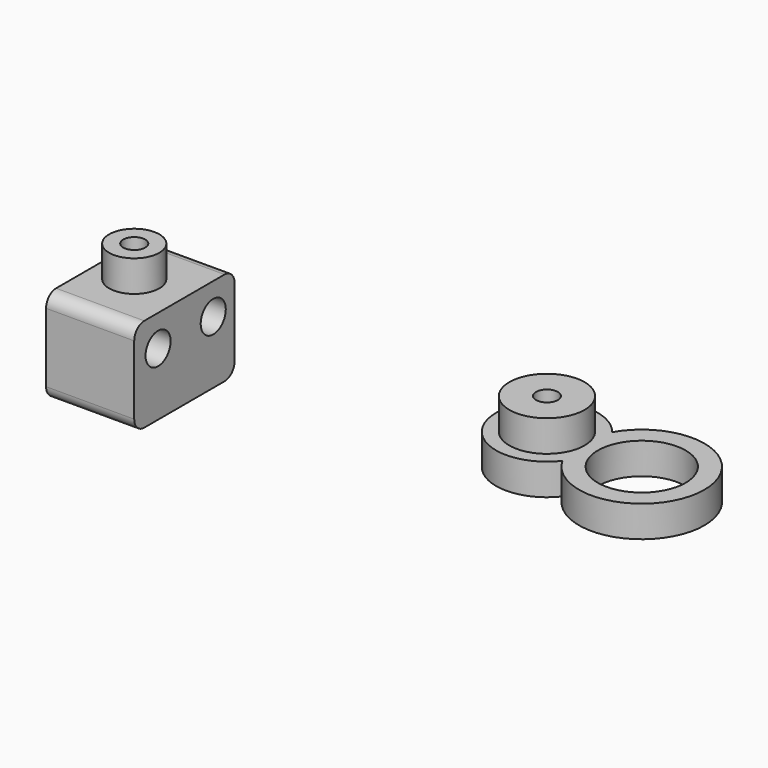
from build123d import *

# Parameters (mm, degrees)
F0_R          = 6
F0_R_2        = 7
F1_DEPTH      = 5
F2_DEPTH      = 10
F3_R          = 1.75
F4_DEPTH      = 25
F5_R          = 4
F6_DEPTH      = 5
F6_DEPTH_BACK = 10
F5_R_2        = 1.75
F7_DEPTH      = 10
F7_DEPTH_BACK = 10
F8_DEPTH      = 5
F8_DEPTH_BACK = 10
F9_R          = 2.5
F10_DEPTH     = 20
F11_R         = 2
F12_R         = 1.75
F13_DEPTH     = 4


with BuildPart() as f1:
    # F0 (on Top) → F1 (new body)
    with BuildSketch(Plane.XY):
        with BuildLine():
            ThreePointArc((6.431165807, -4.9538393006), (25.1179072089, 0), (6.431165807, 4.9538393006))
            ThreePointArc((6.431165807, 4.9538393006), (-8.1179072089, 0), (6.431165807, -4.9538393006))
        make_face()
        Circle(F0_R, mode=Mode.SUBTRACT)
        with Locations((15.1179072089, 0)):
            Circle(F0_R_2, mode=Mode.SUBTRACT)
    extrude(amount=F1_DEPTH)

    # F0 (on Top) → F2 (join)
    with BuildSketch(Plane.XY):
        Circle(F0_R)
    extrude(amount=F2_DEPTH)

    # F3 (on face) → F4 (cut)
    with BuildSketch(Plane.XY.offset(10)):
        Circle(F3_R)
    extrude(amount=-F4_DEPTH, mode=Mode.SUBTRACT)


with BuildPart() as f6:
    # F5 (on Top) → F6 (new body, two sides)
    with BuildSketch(Plane.XY) as f6_sk:
        with BuildLine():
            Line((-60.8299699426, -3.3166247904), (-60.8299699426, 3.3166247904))
            ThreePointArc((-60.8299699426, 3.3166247904), (-71.8299699426, 0), (-60.8299699426, -3.3166247904))
        make_face()
        with Locations((-65.8299699426, 0)):
            Circle(F5_R, mode=Mode.SUBTRACT)
        with BuildLine():
            ThreePointArc((-60.8299699426, -3.3166247904), (-60.085407296, -1.7320508076), (-59.8299699426, 0))
            ThreePointArc((-59.8299699426, 0), (-60.085407296, 1.7320508076), (-60.8299699426, 3.3166247904))
            Line((-60.8299699426, 3.3166247904), (-60.8299699426, -3.3166247904))
        make_face()
        with BuildLine():
            Line((-60.8299699426, -3.3166247904), (-60.8299699426, 3.3166247904))
            ThreePointArc((-60.8299699426, 3.3166247904), (-71.8299699426, 0), (-60.8299699426, -3.3166247904))
        make_face()
        with Locations((-65.8299699426, 0)):
            Circle(F5_R, mode=Mode.SUBTRACT)
    extrude(amount=F6_DEPTH)
    extrude(f6_sk.sketch, amount=-F6_DEPTH_BACK)

    # F5 (on Top) → F7 (join, two sides)
    with BuildSketch(Plane.XY) as f7_sk:
        with Locations((-65.8299699426, 0)):
            Circle(F5_R)
        with Locations((-65.8299699426, 0)):
            Circle(F5_R_2, mode=Mode.SUBTRACT)
    extrude(amount=F7_DEPTH)
    extrude(f7_sk.sketch, amount=-F7_DEPTH_BACK)

    # F5 (on Top) → F8 (join, two sides)
    with BuildSketch(Plane.XY) as f8_sk:
        with BuildLine():
            ThreePointArc((-60.8299699426, 3.3166247904), (-60.085407296, 1.7320508076), (-59.8299699426, 0))
            ThreePointArc((-59.8299699426, 0), (-60.085407296, -1.7320508076), (-60.8299699426, -3.3166247904))
            Line((-60.8299699426, -3.3166247904), (-60.8299699426, -10))
            Line((-60.8299699426, -10), (-57.8299699426, -10))
            Line((-57.8299699426, -10), (-57.8299699426, 10))
            Line((-57.8299699426, 10), (-60.8299699426, 10))
            Line((-60.8299699426, 10), (-60.8299699426, 3.3166247904))
        make_face()
        with BuildLine():
            ThreePointArc((-60.8299699426, -3.3166247904), (-71.8299699426, 0), (-60.8299699426, 3.3166247904))
            Line((-60.8299699426, 3.3166247904), (-60.8299699426, 10))
            Line((-60.8299699426, 10), (-71.8917399645, 10))
            Line((-71.8917399645, 10), (-71.8917399645, -10))
            Line((-71.8917399645, -10), (-60.8299699426, -10))
            Line((-60.8299699426, -10), (-60.8299699426, -3.3166247904))
        make_face()
    extrude(amount=F8_DEPTH)
    extrude(f8_sk.sketch, amount=-F8_DEPTH_BACK)

    # F9 (on face) → F10 (cut)
    with BuildSketch(Plane.YZ.offset(-57.8299699426)):
        with Locations((-5.2478685975, 0)):
            Circle(F9_R)
        with Locations((5.7521314025, 0)):
            Circle(F9_R)
    extrude(amount=-F10_DEPTH, mode=Mode.SUBTRACT)

    # F11
    f11_edges = [f6.edges().sort_by_distance(p)[0] for p in [
        (-64.860855, -10, 5),
        (-64.860855, -10, -10),
        (-64.860855, 10, 5),
        (-64.860855, 10, -10),
    ]]
    fillet(f11_edges, radius=F11_R)

    # F12 (on face) → F13 (cut)
    with BuildSketch(Plane(origin=(0, 0, -10), x_dir=(1, 0, 0), z_dir=(0, 0, -1))):
        Polygon((-62.8299699426, -1.7320508076), (-62.8299699426, 1.7320508076), (-65.8299699426, 3.4641016151), (-68.8299699426, 1.7320508076), (-68.8299699426, -1.7320508076), (-65.8299699426, -3.4641016151), align=None)
        with Locations((-65.8299699426, 0)):
            Circle(F12_R, mode=Mode.SUBTRACT)
    extrude(amount=-F13_DEPTH, mode=Mode.SUBTRACT)


solid = Compound([f1.part, f6.part])
